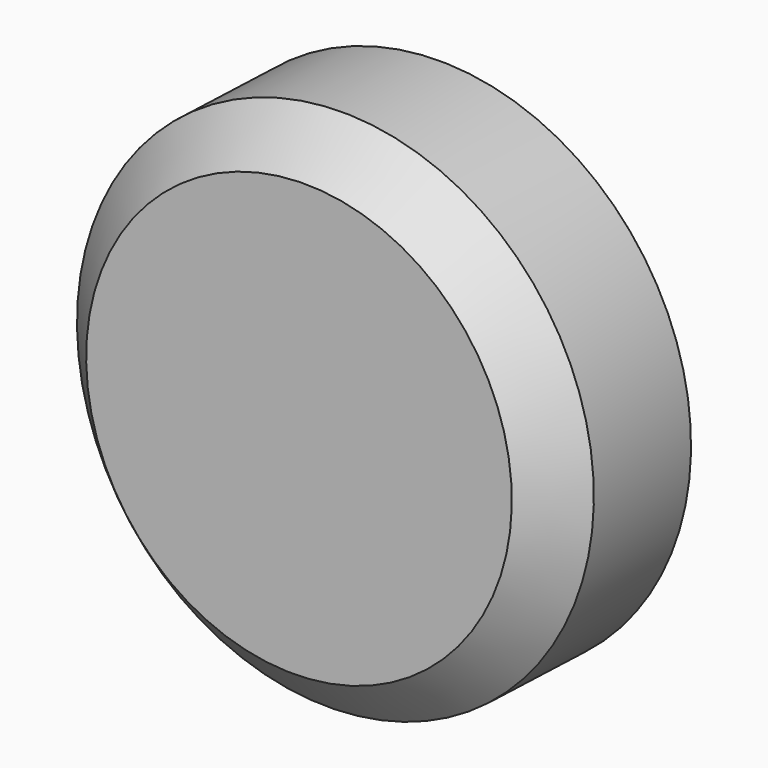
from build123d import *

# Parameters (mm, degrees)
CYLINDER012_R                = 8.5
CYLINDER012_DEPTH            = 4
FUSION006005_PLACEMENT_ANGLE = 92


with BuildPart() as cone001:
    # Cone001 → Cone001 (revolve)
    with BuildSketch(Plane(origin=(0, 0, 5.5), x_dir=(1, 0, 0), z_dir=(0, -1, 0))):
        Polygon((0, 0), (8.5, 0), (7, 1.5), (0, 1.5), align=None)
    revolve(axis=Axis((0, 0, 5.5), (0, 0, 1)))


with BuildPart() as cylinder009:
    # Cylinder012 → Cylinder012 (new body)
    with BuildSketch(Plane.XY.offset(1.5)):
        Circle(CYLINDER012_R)
    extrude(amount=CYLINDER012_DEPTH)


with BuildPart() as fusion006005:
    # Cone → Cone (revolve)
    with BuildSketch(Plane.XZ):
        Polygon((0, 0), (7, 0), (8.5, 1.5), (0, 1.5), align=None)
    revolve(axis=Axis((0, 0, 0), (0, 0, 1)))

    # Fusion006005: union Cone001, Cylinder009
    add(cone001.part)
    add(cylinder009.part)


with BuildPart() as fusion006005_1:
    # Fusion006005 placement: moved
    add(fusion006005.part.moved(Location((0, 4, 14))).rotate(Axis((0, 4, 14), (-1, 0, 0)), FUSION006005_PLACEMENT_ANGLE))


solid = fusion006005_1.part
